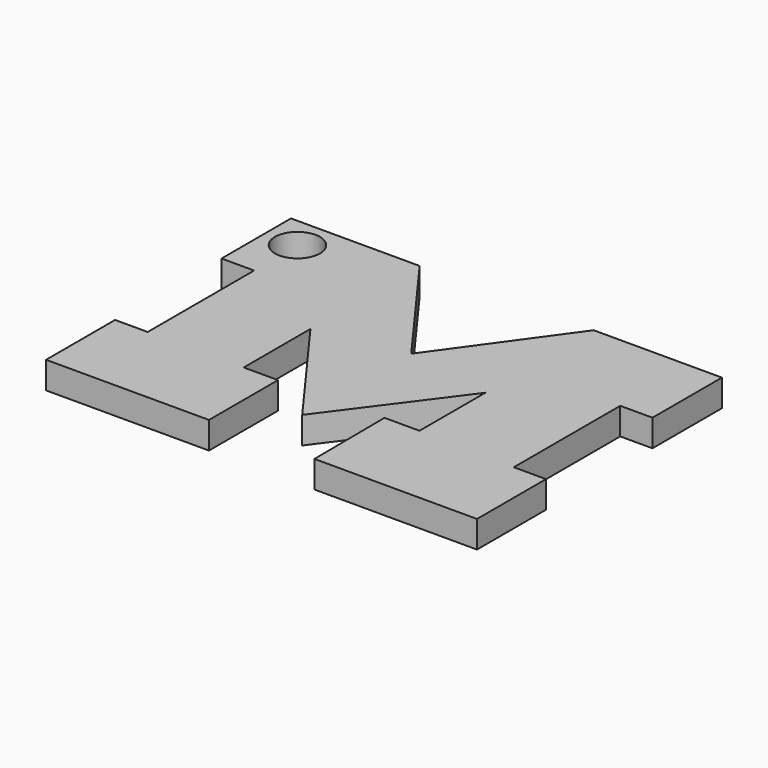
from build123d import *

# Parameters (mm, degrees)
F1_DEPTH = 3
F2_R     = 2.5
F3_DEPTH = 25.4


with BuildPart() as f1:
    # F0 (on Top) → F1 (new body)
    with BuildSketch(Plane.XY):
        Polygon((39.395284, 37.122335), (39.473195, 27.290761), (57.550997, 27.290761), (57.550997, 36.883935), (53.969547, 36.883935), (53.969547, 51.678739), (57.550997, 51.678739), (57.550997, 61.335869), (43.289147, 61.335869), (33.674654, 47.990695), (23.932254, 61.335869), (9.627766, 61.335869), (9.627766, 51.678739), (13.251853, 51.678739), (13.251853, 36.883935), (9.627766, 36.883935), (9.627766, 27.290761), (27.743142, 27.290761), (27.743142, 36.883935), (23.932254, 36.883935), (23.932254, 46.157219), (33.468755, 33.094085), (43.289147, 46.282709), (43.289147, 37.122335), align=None)
    extrude(amount=F1_DEPTH)

    # F2 (on face) → F3 (cut)
    with BuildSketch(Plane.XY.offset(3)):
        with Locations((13.209973, 57.75835)):
            Circle(F2_R)
    extrude(amount=-F3_DEPTH, mode=Mode.SUBTRACT)


solid = f1.part
